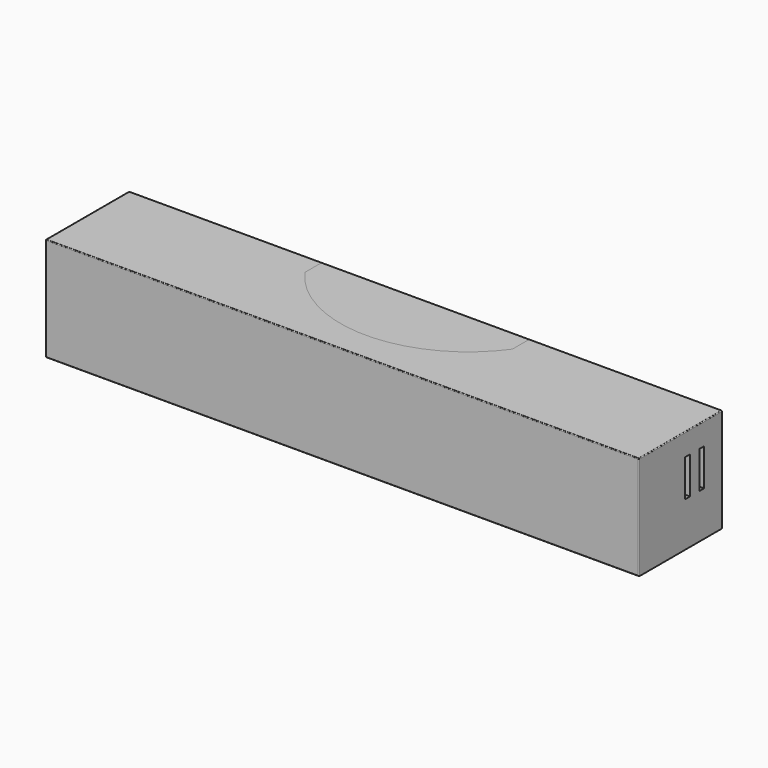
from build123d import *

# Parameters (mm, degrees)
F0_W     = 400
F0_H     = 70
F1_DEPTH = 70
F3_DEPTH = 63
F5_DEPTH = 4
F6_W     = 4
F6_H     = 25
F7_DEPTH = 25
F9_DEPTH = 4
F10_R    = 0.5


with BuildPart() as f1:
    # F0 (on Top) → F1 (new body)
    with BuildSketch(Plane.XY):
        with Locations((200, -35)):
            Rectangle(F0_W, F0_H)
    extrude(amount=F1_DEPTH)

    # F2 (on face) → F3 (cut, through all)
    with BuildSketch(Plane.XY.offset(70)):
        with BuildLine():
            Line((270, -5), (130, -5))
            ThreePointArc((130, -5), (200, -45), (270, -5))
        make_face()
    extrude(amount=-F3_DEPTH, mode=Mode.SUBTRACT)

    # F4 (on face) → F5 (cut)
    with BuildSketch(Plane.XY.offset(70)):
        with BuildLine():
            Line((130, 0), (130, -14.1391109269))
            ThreePointArc((130, -14.1391109269), (200, -50), (270, -14.1391109269))
            Line((270, -14.1391109269), (270, 0))
            Line((270, 0), (130, 0))
        make_face()
    extrude(amount=-F5_DEPTH, mode=Mode.SUBTRACT)

    # F6 (on face) → F7 (cut)
    with BuildSketch(Plane.YZ.offset(400)):
        with Locations((-17, 42.5)):
            Rectangle(F6_W, F6_H)
        with Locations((-29, 42.5)):
            Rectangle(F6_W, F6_H)
    extrude(amount=-F7_DEPTH, mode=Mode.SUBTRACT)

    # F10
    f10_edges = [f1.edges().sort_by_distance(p)[0] for p in [
        (0, -35, 70),
        (200, -70, 70),
        (400, -35, 70),
        (0, -70, 35),
        (400, -70, 35),
        (200, -70, 0),
    ]]
    fillet(f10_edges, radius=F10_R)


with BuildPart() as f9:
    # F8 (on face) → F9 (new body)
    with BuildSketch(Plane.XY.offset(70)):
        with BuildLine():
            Line((130, 0), (130, -14.1391109269))
            ThreePointArc((130, -14.1391109269), (200, -50), (270, -14.1391109269))
            Line((270, -14.1391109269), (270, 0))
            Line((270, 0), (130, 0))
        make_face()
    extrude(amount=-F9_DEPTH)


solid = Compound([f1.part, f9.part])
